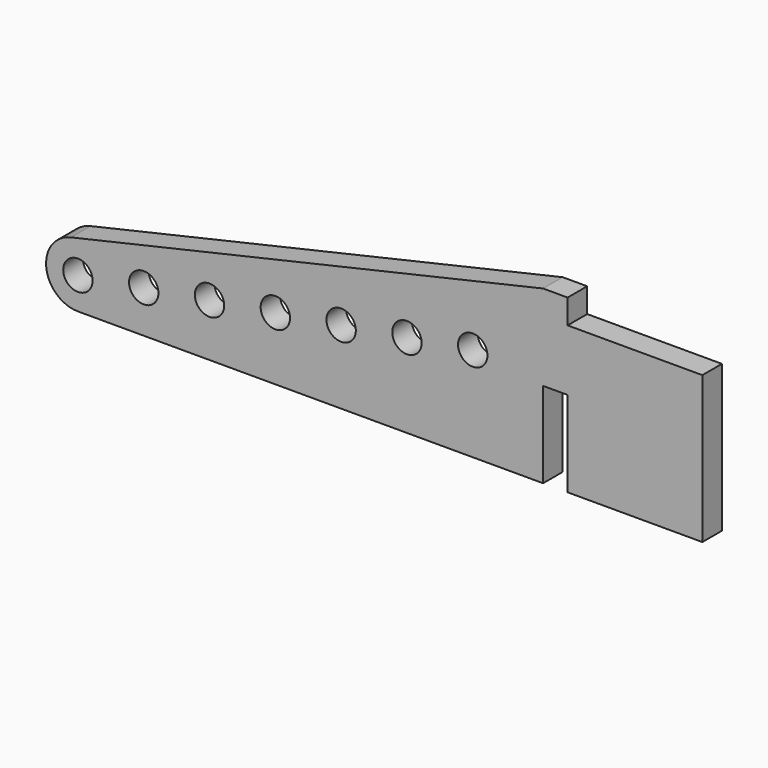
from build123d import *

# Parameters (mm, degrees)
F0_R     = 15
F1_DEPTH = 25


with BuildPart() as f1:
    # F0 (on Front) → F1 (new body)
    with BuildSketch(Plane.XZ):
        with BuildLine():
            Line((474.8, 142.5), (-7.281521, 31.673798))
            ThreePointArc((-7.281521, 31.673798), (-32.292789, -3.664122), (0, -32.5))
            Line((0, -32.5), (474.8, -32.5))
            Line((474.8, -32.5), (474.8, 55))
            Line((474.8, 55), (499.8, 55))
            Line((499.8, 55), (499.8, -32.5))
            Line((499.8, -32.5), (637.3, -32.5))
            Line((637.3, -32.5), (637.3, 117.5))
            Line((637.3, 117.5), (499.8, 117.5))
            Line((499.8, 117.5), (499.8, 142.5))
            Line((499.8, 142.5), (474.8, 142.5))
        make_face()
        with BuildLine():
            ThreePointArc((14.741868, 2.770801), (14.935328, 1.391399), (15, 0))
            ThreePointArc((15, 0), (-14.935328, -1.391399), (14.741868, 2.770801))
        make_face(mode=Mode.SUBTRACT)
        with Locations((67.162807, 10.637544)):
            Circle(F0_R, mode=Mode.SUBTRACT)
        with Locations((134.325614, 21.275087)):
            Circle(F0_R, mode=Mode.SUBTRACT)
        with Locations((201.488421, 31.912631)):
            Circle(F0_R, mode=Mode.SUBTRACT)
        with Locations((268.651229, 42.550174)):
            Circle(F0_R, mode=Mode.SUBTRACT)
        with Locations((335.814036, 53.187718)):
            Circle(F0_R, mode=Mode.SUBTRACT)
        with Locations((402.976843, 63.825262)):
            Circle(F0_R, mode=Mode.SUBTRACT)
    extrude(amount=F1_DEPTH)


solid = f1.part
